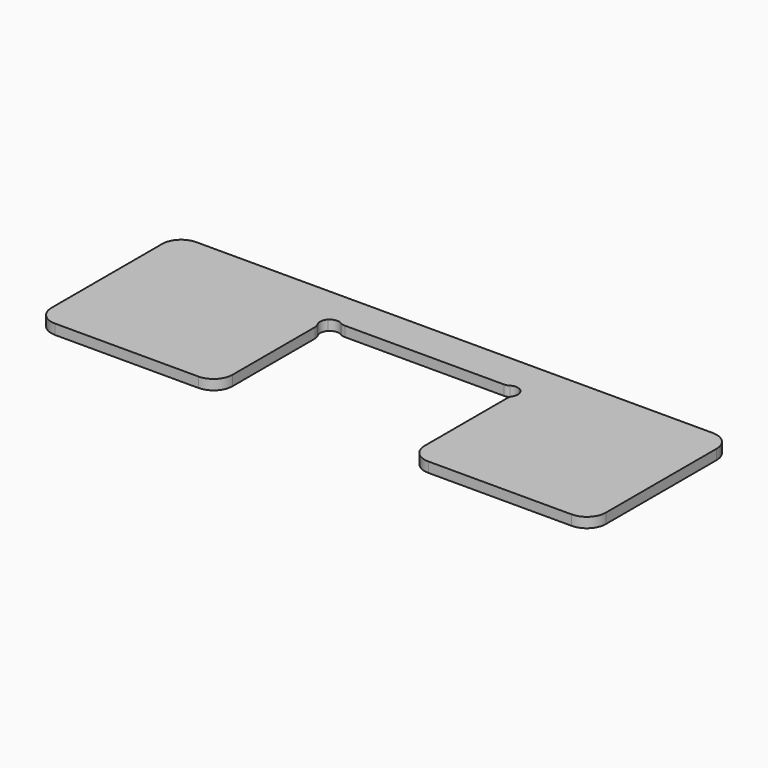
from build123d import *

# Parameters (mm, degrees)
F1_DEPTH = 1.6
F2_R     = 3


with BuildPart() as f1:
    # F0 (on Top) → F1 (new body)
    with BuildSketch(Plane.XY):
        with BuildLine():
            Line((44, -14), (44, 14))
            Line((44, 14), (-44, 14))
            Line((-44, 14), (-44, -14))
            Line((-44, -14), (-15.25, -14))
            Line((-15.25, -14), (-15.25, 5.376324))
            ThreePointArc((-15.25, 5.376324), (-15.305961, 5.782221), (-15.46967, 6.157832))
            ThreePointArc((-15.46967, 6.157832), (-15.678788, 7.116949), (-15.25, 8))
            ThreePointArc((-15.25, 8), (-14.366949, 8.428788), (-13.407832, 8.21967))
            ThreePointArc((-13.407832, 8.21967), (-13.032221, 8.055961), (-12.626324, 8))
            Line((-12.626324, 8), (12.626324, 8))
            ThreePointArc((12.626324, 8), (13.032221, 8.055961), (13.407832, 8.21967))
            ThreePointArc((13.407832, 8.21967), (14.366949, 8.428788), (15.25, 8))
            ThreePointArc((15.25, 8), (15.678788, 7.116949), (15.46967, 6.157832))
            ThreePointArc((15.46967, 6.157832), (15.305961, 5.782221), (15.25, 5.376324))
            Line((15.25, 5.376324), (15.25, -14))
            Line((15.25, -14), (44, -14))
        make_face()
    extrude(amount=F1_DEPTH)

    # F2
    f2_edges = [f1.edges().sort_by_distance(p)[0] for p in [
        (-15.25, -14, 0.8),
        (-44, -14, 0.8),
        (-44, 14, 0.8),
        (44, 14, 0.8),
        (44, -14, 0.8),
        (15.25, -14, 0.8),
    ]]
    fillet(f2_edges, radius=F2_R)


solid = f1.part
